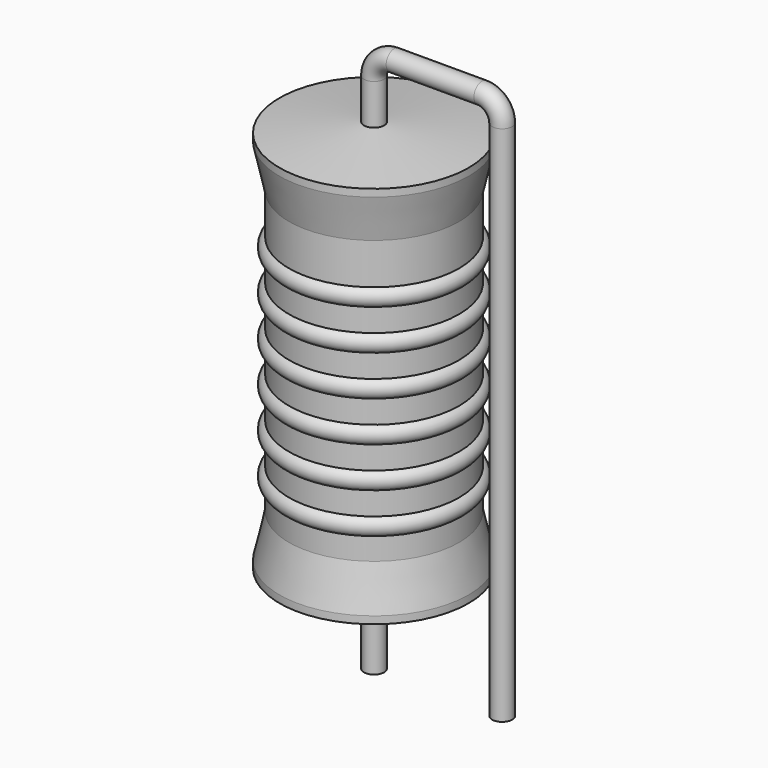
from build123d import *

# Parameters (mm, degrees)
SKETCH_R = 0.4


with BuildPart() as sweep_body:
    # Sweep: sweep along a path in Sketch001
    with BuildLine(Plane.XZ) as sweep_path:
        Line((0, -3), (0, 17.7))
        ThreePointArc((0, 17.7), (0.234311, 18.265682), (0.799989, 18.5))
        Line((0.799989, 18.5), (4.28, 18.5))
        ThreePointArc((4.28, 18.5), (4.845685, 18.265685), (5.08, 17.7))
        Line((5.08, 17.7), (5.08, -3))
    # Sketch → Sweep (sweep)
    with BuildSketch(Plane.XY.offset(-2)):
        Circle(SKETCH_R)
    sweep(path=sweep_path.line)


with BuildPart() as revolution:
    # Sketch002 → Revolution (revolve)
    with BuildSketch(Plane.XZ):
        Polygon((0, 0.1), (0, 16.1), (0.3, 16.1), (3.75, 15.7), (3.75, 15.4075), (3.375, 13.7), (3.375, 2.5), (3.75, 0.7925), (3.75, 0.5), (0.3, 0.1), align=None)
    revolve(axis=Axis((0, 0, 0), (0, 0, 1)))


with BuildPart() as revolution001:
    # Sketch003 → Revolution001 (revolve)
    with BuildSketch(Plane.XZ):
        with BuildLine():
            Line((3, 12.95), (3, 2.5))
            Line((3, 2.5), (3.225, 2.5))
            Line((3.225, 2.5), (3.225, 3.35))
            ThreePointArc((3.225, 3.35), (3.6, 3.725), (3.225, 4.1))
            Line((3.225, 4.1), (3.225, 4.95))
            ThreePointArc((3.225, 4.95), (3.6, 5.325), (3.225, 5.7))
            Line((3.225, 5.7), (3.225, 6.55))
            ThreePointArc((3.225, 6.55), (3.6, 6.925), (3.225, 7.3))
            Line((3.225, 7.3), (3.225, 8.15))
            ThreePointArc((3.225, 8.15), (3.6, 8.525), (3.225, 8.9))
            Line((3.225, 8.9), (3.225, 9.75))
            ThreePointArc((3.225, 9.75), (3.6, 10.125), (3.225, 10.5))
            Line((3.225, 10.5), (3.225, 11.35))
            ThreePointArc((3.225, 11.35), (3.6, 11.725), (3.225, 12.1))
            Line((3.225, 12.95), (3.225, 12.1))
            Line((3, 12.95), (3.225, 12.95))
        make_face()
    revolve(axis=Axis((0, 0, 0), (0, 0, 1)))


solid = Compound([sweep_body.part, revolution.part, revolution001.part])
